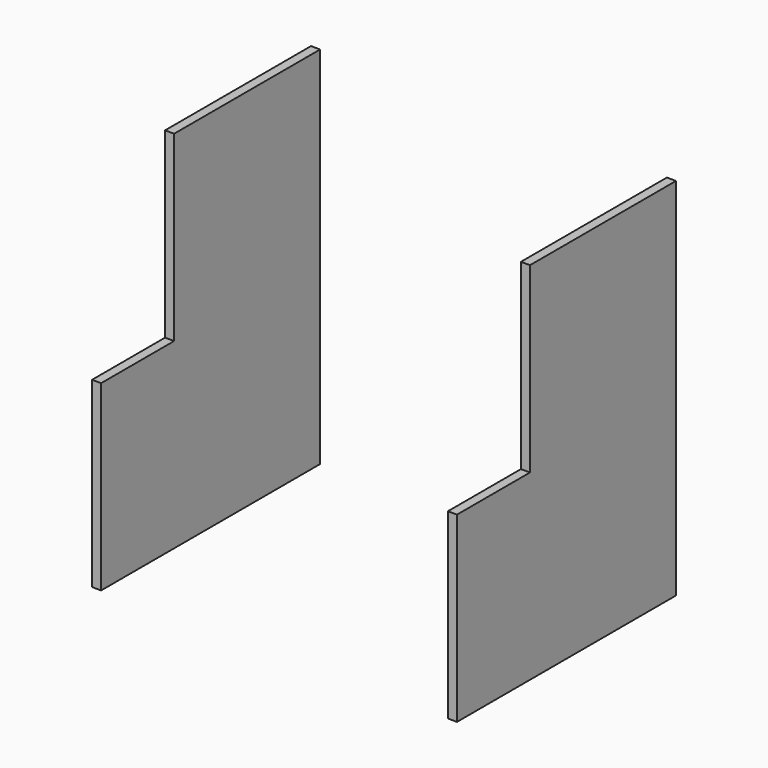
from build123d import *

# Parameters (mm, degrees)
F0_W     = 300
F0_H     = 400
F2_DEPTH = 10
F5_W     = 100
F5_H     = 200
F6_DEPTH = 400.001


with BuildPart() as f2:
    # F0 (on Right) → F2 (new body)
    with BuildSketch(Plane.YZ):
        with Locations((150, 200)):
            Rectangle(F0_W, F0_H)
    extrude(amount=F2_DEPTH)


with BuildPart() as f4_1:
    # F4: instance of F2
    add(f2.part.mirror(Plane.YZ.offset(200)))


with BuildPart() as f6_tool:
    # F5 (on face) → F6 (new body, through all)
    with BuildSketch(Plane.YZ.offset(400)):
        with Locations((50, 300)):
            Rectangle(F5_W, F5_H)
    extrude(amount=-F6_DEPTH)


with BuildPart() as f2_1:
    add(f2.part)

    # F6: cut by f6_tool
    add(f6_tool.part, mode=Mode.SUBTRACT)


with BuildPart() as f4_1_1:
    add(f4_1.part)

    # F6: cut by f6_tool
    add(f6_tool.part, mode=Mode.SUBTRACT)


solid = Compound([f2_1.part, f4_1_1.part])
